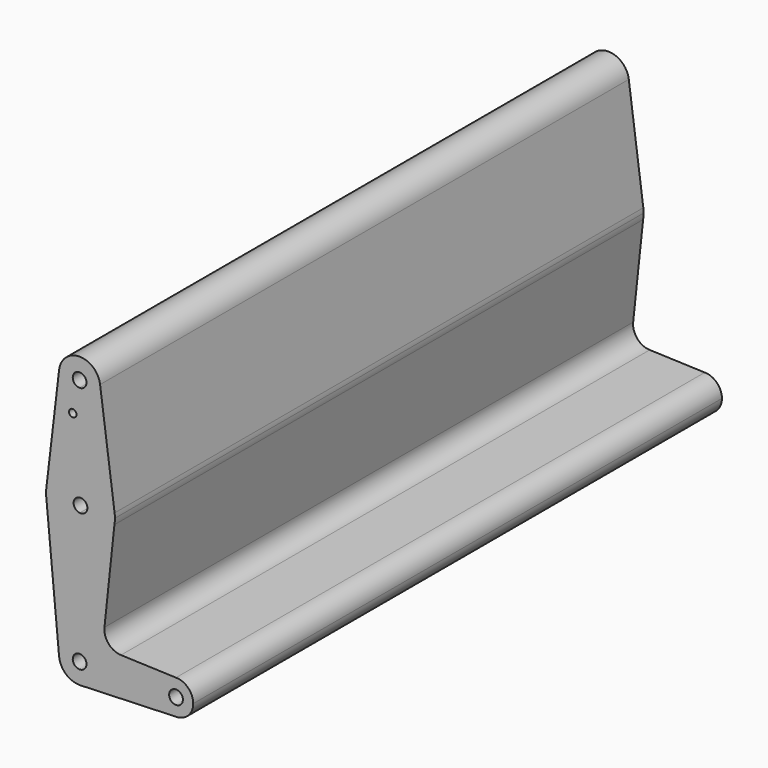
from build123d import *

# Parameters (mm, degrees)
F0_R     = 1.7182468223
F1_DEPTH = 304.8


with BuildPart() as f1:
    # F0 (on Front) → F1 (new body)
    with BuildSketch(Plane.XZ):
        with BuildLine():
            Line((-32.9967385804, 6.8048425582), (-28.4104094703, 49.945047138))
            ThreePointArc((-28.4104094703, 49.945047138), (-33.9877661328, 40.392821433), (-44.45, 36.8020574797))
            Line((-44.45, 36.8020574797), (-44.45, -1.302996767))
            ThreePointArc((-44.45, -1.302996767), (-37.7148079092, -4.0928046762), (-34.925, -10.827996767))
            Line((-34.925, -10.827996767), (-7.9375, -10.827996767))
            ThreePointArc((-7.9375, -10.827996767), (-5.6126600757, -5.2153366913), (0, -2.890496767))
            Line((0, -2.890496767), (-25.3759362201, -1.9807197434))
            ThreePointArc((-25.3759362201, -1.9807197434), (-31.0967184952, 0.7549521344), (-32.9967385804, 6.8048425582))
        make_face()
        with BuildLine():
            ThreePointArc((-44.45, 36.8020574797), (-54.883074079, 41.0682090736), (-59.8545699484, 51.1842020046))
            Line((-59.8545699484, 51.1842020046), (-53.9330768267, -11.720677504))
            ThreePointArc((-53.9330768267, -11.720677504), (-51.4937351249, -4.4161779541), (-44.45, -1.302996767))
            Line((-44.45, -1.302996767), (-44.45, 36.8020574797))
        make_face()
        with BuildLine():
            ThreePointArc((-44.45, -1.302996767), (-51.4937351249, -4.4161779541), (-53.9330768267, -11.720677504))
            ThreePointArc((-53.9330768267, -11.720677504), (-50.7345844929, -17.9854839484), (-44.1087293489, -20.3468811209))
            ThreePointArc((-44.1087293489, -20.3468811209), (-37.5952123318, -17.4414308994), (-34.925, -10.827996767))
            Line((-34.925, -10.827996767), (-41.275, -10.827996767))
            ThreePointArc((-41.275, -10.827996767), (-46.6950640303, -13.0730607973), (-44.45, -7.652996767))
            Line((-44.45, -7.652996767), (-44.45, -1.302996767))
        make_face()
        with BuildLine():
            ThreePointArc((-34.925, -10.827996767), (-37.7148079092, -4.0928046762), (-44.45, -1.302996767))
            Line((-44.45, -1.302996767), (-44.45, -7.652996767))
            ThreePointArc((-44.45, -7.652996767), (-42.2049359697, -8.5829327367), (-41.275, -10.827996767))
            Line((-41.275, -10.827996767), (-34.925, -10.827996767))
        make_face()
        with BuildLine():
            ThreePointArc((-34.925, -10.827996767), (-37.5952123318, -17.4414308994), (-44.1087293489, -20.3468811209))
            Line((-44.1087293489, -20.3468811209), (0, -18.765496767))
            ThreePointArc((0, -18.765496767), (-5.6126600757, -16.4406568427), (-7.9375, -10.827996767))
            Line((-7.9375, -10.827996767), (-34.925, -10.827996767))
        make_face()
        with BuildLine():
            ThreePointArc((-7.9375, -10.827996767), (-5.6126600757, -16.4406568427), (0, -18.765496767))
            ThreePointArc((0, -18.765496767), (5.6126600757, -16.4406568427), (7.9375, -10.827996767))
            ThreePointArc((7.9375, -10.827996767), (5.6126600757, -5.2153366913), (0, -2.890496767))
            ThreePointArc((0, -2.890496767), (-5.6126600757, -5.2153366913), (-7.9375, -10.827996767))
        make_face()
        with BuildLine():
            ThreePointArc((3.175, -10.827996767), (0, -14.002996767), (-3.175, -10.827996767))
            ThreePointArc((-3.175, -10.827996767), (0, -7.652996767), (3.175, -10.827996767))
        make_face(mode=Mode.SUBTRACT)
        with BuildLine():
            ThreePointArc((-28.1744419038, 52.672003233), (-28.2096407737, 53.7285661304), (-28.3150812936, 54.7804436962))
            ThreePointArc((-28.3150812936, 54.7804436962), (-33.74768808, 64.7504755351), (-44.45, 68.5419489863))
            Line((-44.45, 68.5419489863), (-44.45, 55.8216346736))
            ThreePointArc((-44.45, 55.8216346736), (-41.9507693419, 55.0544806154), (-40.8744419038, 52.672003233))
            ThreePointArc((-40.8744419038, 52.672003233), (-41.9507693419, 50.2895258506), (-44.45, 49.5223717924))
            Line((-44.45, 49.5223717924), (-44.45, 36.8020574797))
            ThreePointArc((-44.45, 36.8020574797), (-33.9877661328, 40.392821433), (-28.4104094703, 49.945047138))
            ThreePointArc((-28.4104094703, 49.945047138), (-28.2335438123, 51.3034300493), (-28.1744419038, 52.672003233))
        make_face()
        with BuildLine():
            Line((-44.45, 55.8216346736), (-44.45, 68.5419489863))
            ThreePointArc((-44.45, 68.5419489863), (-54.7455063411, 64.4027248883), (-59.8150941698, 54.532066035))
            ThreePointArc((-59.8150941698, 54.532066035), (-59.9233384244, 52.8591776278), (-59.8545699484, 51.1842020046))
            ThreePointArc((-59.8545699484, 51.1842020046), (-54.883074079, 41.0682090736), (-44.45, 36.8020574797))
            Line((-44.45, 36.8020574797), (-44.45, 49.5223717924))
            ThreePointArc((-44.45, 49.5223717924), (-47.2244419038, 52.672003233), (-44.45, 55.8216346736))
        make_face()
        with BuildLine():
            Line((-44.45, 68.5419489863), (-44.45, 93.947003233))
            ThreePointArc((-44.45, 93.947003233), (-51.5688441447, 97.1436793599), (-53.9093913596, 104.5880409142))
            Line((-53.9093913596, 104.5880409142), (-59.8150941698, 54.532066035))
            ThreePointArc((-59.8150941698, 54.532066035), (-54.7455063411, 64.4027248883), (-44.45, 68.5419489863))
        make_face()
        with Locations((-47.625, 88.994003233)):
            Circle(F0_R, mode=Mode.SUBTRACT)
        with BuildLine():
            ThreePointArc((-35.0093836339, 104.7370675109), (-34.9461193219, 104.1059409715), (-34.925, 103.472003233))
            ThreePointArc((-34.925, 103.472003233), (-37.7148079092, 96.7368111422), (-44.45, 93.947003233))
            Line((-44.45, 93.947003233), (-44.45, 68.5419489863))
            ThreePointArc((-44.45, 68.5419489863), (-33.74768808, 64.7504755351), (-28.3150812936, 54.7804436962))
            Line((-28.3150812936, 54.7804436962), (-35.0093836339, 104.7370675109))
        make_face()
        with BuildLine():
            ThreePointArc((-44.45, 93.947003233), (-37.7148079092, 96.7368111422), (-34.925, 103.472003233))
            ThreePointArc((-34.925, 103.472003233), (-34.9461193219, 104.1059409715), (-35.0093836339, 104.7370675109))
            ThreePointArc((-35.0093836339, 104.7370675109), (-44.5251023084, 112.9967071467), (-53.9093913596, 104.5880409142))
            ThreePointArc((-53.9093913596, 104.5880409142), (-51.5688441447, 97.1436793599), (-44.45, 93.947003233))
        make_face()
        with BuildLine():
            ThreePointArc((-41.275, 103.472003233), (-42.2049359697, 101.2269392027), (-44.45, 100.297003233))
            ThreePointArc((-44.45, 100.297003233), (-46.6950640303, 105.7170672633), (-41.275, 103.472003233))
        make_face(mode=Mode.SUBTRACT)
    extrude(amount=F1_DEPTH)


solid = f1.part
